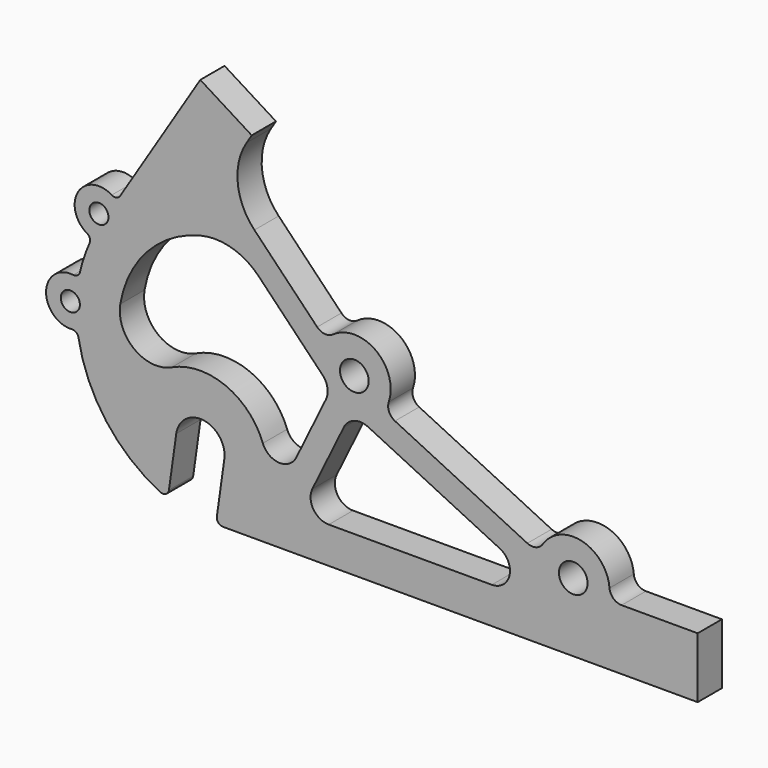
from build123d import *

# Parameters (mm, degrees)
F0_R     = 2
F0_R_2   = 3
F1_DEPTH = 6.35


with BuildPart() as f1:
    # F0 (on Front) → F1 (new body)
    with BuildSketch(Plane.XZ):
        with BuildLine():
            Line((-6.561359, -10.185191), (-5.030562, 0.706999))
            ThreePointArc((-5.030562, 0.706999), (0.706999, 5.030562), (5.030562, -0.706999))
            Line((5.030562, -0.706999), (3.466391, -11.836654))
            ThreePointArc((3.466391, -11.836654), (3.76555, -12.846599), (4.724031, -13.283404))
            Line((4.724031, -13.283404), (104.14, -13.283404))
            Line((104.14, -13.283404), (104.14, -0.583404))
            Line((104.14, -0.583404), (88.218285, -0.583404))
            ThreePointArc((88.218285, -0.583404), (86.496651, 0.089091), (85.686662, 1.750474))
            ThreePointArc((85.686662, 1.750474), (79.969162, 8.51722), (71.714249, 5.302397))
            ThreePointArc((71.714249, 5.302397), (70.263325, 4.243804), (68.474938, 4.409556))
            Line((68.474938, 4.409556), (40.756691, 17.928649))
            ThreePointArc((40.756691, 17.928649), (39.525036, 19.235869), (39.46594, 21.030948))
            ThreePointArc((39.46594, 21.030948), (36.784215, 29.615632), (27.790551, 29.665466))
            ThreePointArc((27.790551, 29.665466), (26.078277, 29.194234), (24.475846, 29.959843))
            Line((24.475846, 29.959843), (11.334145, 43.568473))
            ThreePointArc((11.334145, 43.568473), (7.839332, 51.063123), (9.69955, 59.120609))
            Line((9.69955, 59.120609), (10.770211, 60.834025))
            Line((10.770211, 60.834025), (0, 67.564))
            Line((0, 67.564), (-16.782521, 40.706351))
            ThreePointArc((-16.782521, 40.706351), (-17.573855, 40.141899), (-18.53254, 40.302328))
            ThreePointArc((-18.53254, 40.302328), (-25.594222, 38.585033), (-23.71271, 31.56532))
            ThreePointArc((-23.71271, 31.56532), (-23.128272, 30.854697), (-23.177073, 29.935909))
            ThreePointArc((-23.177073, 29.935909), (-24.332809, 26.984273), (-25.184893, 23.931106))
            ThreePointArc((-25.184893, 23.931106), (-25.693727, 23.17112), (-26.581209, 22.950068))
            ThreePointArc((-26.581209, 22.950068), (-32.288901, 18.045609), (-26.852685, 12.841859))
            ThreePointArc((-26.852685, 12.841859), (-25.978347, 12.57349), (-25.511038, 11.787288))
            ThreePointArc((-25.511038, 11.787288), (-19.712251, -1.748383), (-8.377773, -11.148912))
            ThreePointArc((-8.377773, -11.148912), (-7.223774, -11.130317), (-6.561359, -10.185191))
        make_face()
        with Locations((-27.210732, 17.909225)):
            Circle(F0_R, mode=Mode.SUBTRACT)
        with BuildLine():
            ThreePointArc((-5.974766, 12.627869), (-13.83499, 13.441854), (-16.746761, 20.788097))
            ThreePointArc((-16.746761, 20.788097), (-11.06787, 32.320826), (0, 38.859624))
            ThreePointArc((0, 38.859624), (6.56969, 38.742325), (12.20146, 35.357395))
            Line((12.20146, 35.357395), (25.602229, 21.480493))
            ThreePointArc((25.602229, 21.480493), (26.624637, 19.42986), (26.285949, 17.16365))
            Line((26.285949, 17.16365), (20.103772, 4.488308))
            ThreePointArc((20.103772, 4.488308), (16.488785, 2.353271), (13.105216, 4.838823))
            ThreePointArc((13.105216, 4.838823), (5.279976, 12.933784), (-5.974766, 12.627869))
        make_face(mode=Mode.SUBTRACT)
        with Locations((32.253298, 23.489035)):
            Circle(F0_R_2, mode=Mode.SUBTRACT)
        with BuildLine():
            ThreePointArc((30.036949, 13.265985), (32.220939, 15.198217), (35.131548, 15.020196))
            Line((35.131548, 15.020196), (62.706484, 1.571001))
            ThreePointArc((62.706484, 1.571001), (64.74864, -2.710467), (61.03629, -5.663404))
            Line((61.03629, -5.663404), (26.901744, -5.663404))
            ThreePointArc((26.901744, -5.663404), (23.67068, -3.872396), (23.477338, -0.18321))
            Line((23.477338, -0.18321), (30.036949, 13.265985))
        make_face(mode=Mode.SUBTRACT)
        with Locations((78.091794, 1.132107)):
            Circle(F0_R_2, mode=Mode.SUBTRACT)
        with Locations((-21.22453, 35.994243)):
            Circle(F0_R, mode=Mode.SUBTRACT)
    extrude(amount=F1_DEPTH)


solid = f1.part
